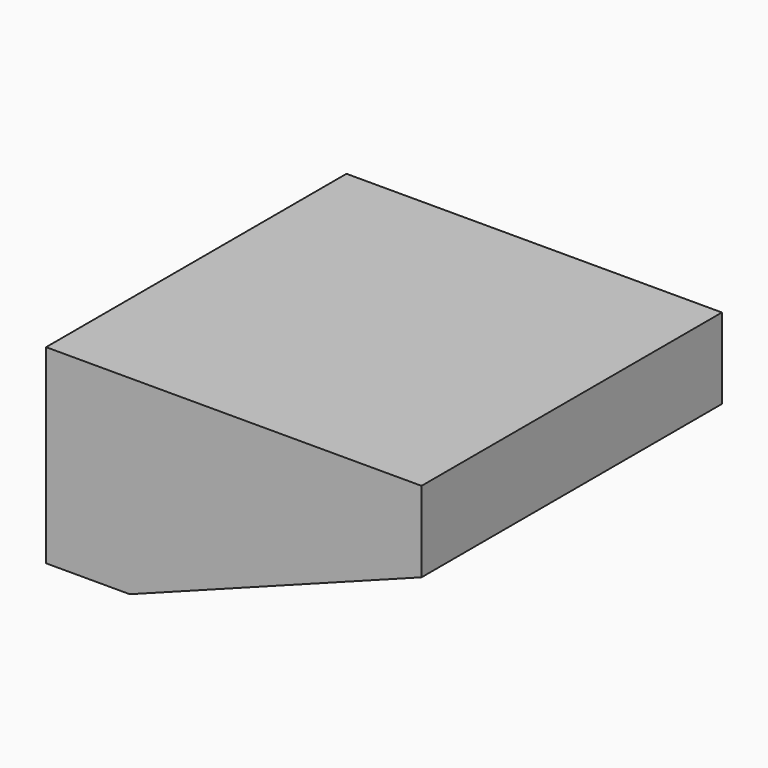
from build123d import *

# Parameters (mm, degrees)
F1_DEPTH = 500
F2_W     = 80
F2_H     = 80
F3_DEPTH = 40


with BuildPart() as f1:
    # F0 (on Front) → F1 (new body, symmetric)
    with BuildSketch(Plane.XZ):
        Polygon((-651.953071, -238.196552), (-529.637516, -238.196552), (-429.026464, -238.196552), (348.046929, 54.15269), (348.046929, 268.638919), (-651.953071, 268.638919), align=None)
    extrude(amount=F1_DEPTH, both=True)

    # F2 (on Front) → F3 (cut, symmetric)
    with BuildSketch(Plane.XZ):
        with Locations((162.257196, 168.871187)):
            Rectangle(F2_W, F2_H)
    extrude(amount=F3_DEPTH, both=True, mode=Mode.SUBTRACT)


solid = f1.part
